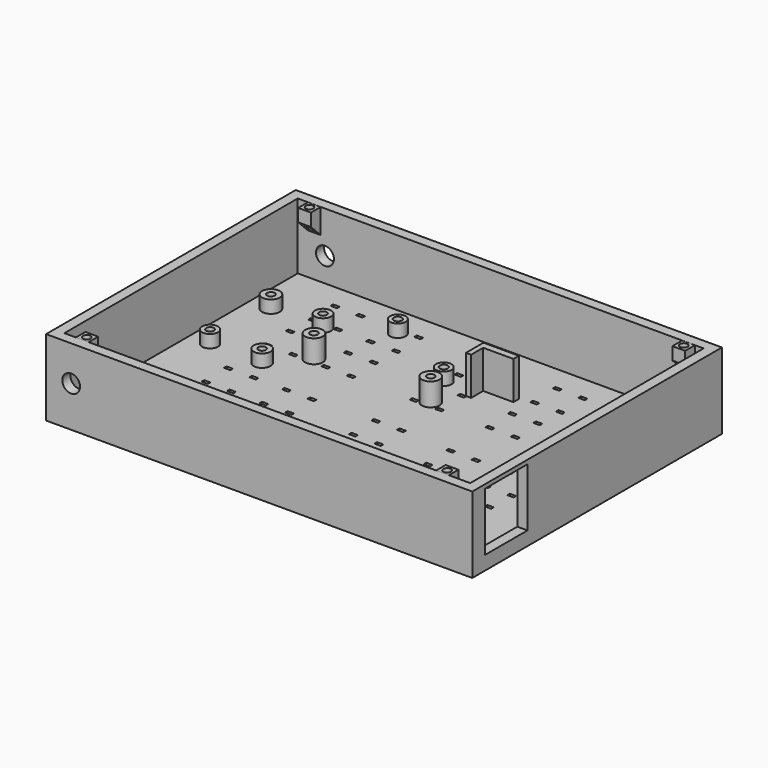
from build123d import *

# Parameters (mm, degrees)
SKETCH011_R            = 1.5
EXTRUDE011_DEPTH       = 10
EXTRUDE010_DEPTH       = 5
CUT006_PLACEMENT_ANGLE = 180
CUT005_PLACEMENT_ANGLE = 180
SKETCH009_R            = 3.5
EXTRUDE009_DEPTH       = 10
SKETCH008_R            = 3.525
EXTRUDE008_DEPTH       = 10
SKETCH007_W            = 20.952507
SKETCH007_H            = 22.980174
EXTRUDE007_DEPTH       = 8
SKETCH006_W            = 168
SKETCH006_H            = 123
SKETCH006_W_2          = 160
SKETCH006_H_2          = 115
EXTRUDE006_DEPTH       = 30
SKETCH005_R            = 3
SKETCH005_R_2          = 1.5
EXTRUDE005_DEPTH       = 5
SKETCH003_R            = 3.07303
SKETCH003_R_2          = 1.6
EXTRUDE003_DEPTH       = 5
SKETCH002_R            = 3.5
SKETCH002_R_2          = 1.5
EXTRUDE002_DEPTH       = 9
EXTRUDE001_DEPTH       = 15
SKETCH_W               = 160
SKETCH_H               = 115
SKETCH_W_2             = 2.5
SKETCH_H_2             = 1.25
EXTRUDE_DEPTH          = 4
SKETCH004_R            = 3.333371
SKETCH004_R_2          = 1.5
SKETCH004_R_3          = 3.135459
SKETCH004_R_4          = 3.484514
SKETCH004_R_5          = 3.19674
EXTRUDE004_DEPTH       = 5


with BuildPart() as extrude011:
    # Sketch011 (on Face1 of Extrude010) → Extrude011 (new body)
    with BuildSketch(Plane.XY.offset(27.45571)):
        with Locations((2.437397, 57.252541)):
            Circle(SKETCH011_R)
    extrude(amount=-EXTRUDE011_DEPTH)


with BuildPart() as extrude010:
    # Sketch010 → Extrude010 (new body)
    with BuildSketch(Plane.YZ):
        Polygon((59.748142, 27.45571), (54.748142, 27.45571), (54.748142, 22.45571), (59.748142, 17.484093), align=None)
    extrude(amount=EXTRUDE010_DEPTH)


with BuildPart() as screw_holder:
    # Cut003 base: copy of Extrude010
    add(extrude010.part)

    # Cut003: cut Extrude011
    add(extrude011.part, mode=Mode.SUBTRACT)


with BuildPart() as screw_holder_1:
    # Cut003 placement: moved
    add(screw_holder.part.moved(Location((-76, -2, 2.5))))


with BuildPart() as screw_holder001:
    # Cut004 base: copy of Extrude010
    add(extrude010.part)

    # Cut004: cut Extrude011
    add(extrude011.part, mode=Mode.SUBTRACT)


with BuildPart() as screw_holder001_1:
    # Cut004 placement: moved
    add(screw_holder001.part.moved(Location((71.5, -2, 2.5))))


with BuildPart() as screw_holder003:
    # Cut006 base: copy of Extrude010
    add(extrude010.part)

    # Cut006: cut Extrude011
    add(extrude011.part, mode=Mode.SUBTRACT)


with BuildPart() as screw_holder003_1:
    # Cut006 placement: moved
    add(screw_holder003.part.moved(Location((71.5, 2, 2.5))).rotate(Axis((71.5, 2, 2.5), (0, 0, 1)), CUT006_PLACEMENT_ANGLE))


with BuildPart() as screw_holder002:
    # Cut005 base: copy of Extrude010
    add(extrude010.part)

    # Cut005: cut Extrude011
    add(extrude011.part, mode=Mode.SUBTRACT)


with BuildPart() as screw_holder002_1:
    # Cut005 placement: moved
    add(screw_holder002.part.moved(Location((-70.5, 2, 2.5))).rotate(Axis((-70.5, 2, 2.5), (0, 0, 1)), CUT005_PLACEMENT_ANGLE))


with BuildPart() as extrude009:
    # Sketch009 (on Face7 of Cut001) → Extrude009 (new body, symmetric)
    with BuildSketch(Plane.XZ.offset(61.5)):
        with Locations((-74.115623, 16.067261)):
            Circle(SKETCH009_R)
    extrude(amount=EXTRUDE009_DEPTH, both=True)


with BuildPart() as extrude008:
    # Sketch008 (on Face1 of Cut) → Extrude008 (new body, symmetric)
    with BuildSketch(Plane(origin=(0, 61.5, 0), x_dir=(-1, 0, 0), z_dir=(0, 1, 0))):
        with Locations((69.272209, 13.566753)):
            Circle(SKETCH008_R)
    extrude(amount=EXTRUDE008_DEPTH, both=True)


with BuildPart() as extrude007:
    # Sketch007 (on Face2 of Extrude006) → Extrude007 (new body, symmetric)
    with BuildSketch(Plane.YZ.offset(84)):
        with Locations((-44.79282, 16.950631)):
            Rectangle(SKETCH007_W, SKETCH007_H)
    extrude(amount=EXTRUDE007_DEPTH, both=True)


with BuildPart() as cut002:
    # Sketch006 → Extrude006 (new body)
    with BuildSketch(Plane.XY):
        Rectangle(SKETCH006_W, SKETCH006_H)
        Rectangle(SKETCH006_W_2, SKETCH006_H_2, mode=Mode.SUBTRACT)
    extrude(amount=EXTRUDE006_DEPTH)

    # Cut: cut Extrude007
    add(extrude007.part, mode=Mode.SUBTRACT)

    # Cut001: cut Extrude008
    add(extrude008.part, mode=Mode.SUBTRACT)

    # Cut002: cut Extrude009
    add(extrude009.part, mode=Mode.SUBTRACT)


with BuildPart() as extrude005:
    # Sketch005 (on Face326 of Extrude) → Extrude005 (new body)
    with BuildSketch(Plane.XY.offset(4)):
        with Locations((-66.267296, -31.365587)):
            Circle(SKETCH005_R)
        with Locations((-66.267296, -31.365587)):
            Circle(SKETCH005_R_2, mode=Mode.SUBTRACT)
    extrude(amount=EXTRUDE005_DEPTH)


with BuildPart() as extrude003:
    # Sketch003 (on Face326 of Extrude) → Extrude003 (new body)
    with BuildSketch(Plane.XY.offset(4)):
        with Locations((-30.942476, 45.480278)):
            Circle(SKETCH003_R)
        with Locations((-30.942476, 45.480278)):
            Circle(SKETCH003_R_2, mode=Mode.SUBTRACT)
        with Locations((0.09178, 29.333971)):
            Circle(SKETCH003_R)
        with Locations((0.09178, 29.333971)):
            Circle(SKETCH003_R_2, mode=Mode.SUBTRACT)
    extrude(amount=EXTRUDE003_DEPTH)


with BuildPart() as plate_holder:
    # Sketch002 (on Face326 of Extrude) → Extrude002 (new body)
    with BuildSketch(Plane.XY.offset(4)):
        with Locations((5.59, -50)):
            Circle(SKETCH002_R)
        with Locations((5.59, -50)):
            Circle(SKETCH002_R_2, mode=Mode.SUBTRACT)
        with Locations((5.59, 16)):
            Circle(SKETCH002_R)
        with Locations((5.59, 16)):
            Circle(SKETCH002_R_2, mode=Mode.SUBTRACT)
        with Locations((-40.41, -50)):
            Circle(SKETCH002_R)
        with Locations((-40.41, -50)):
            Circle(SKETCH002_R_2, mode=Mode.SUBTRACT)
        with Locations((-40.41, 16)):
            Circle(SKETCH002_R)
        with Locations((-40.41, 16)):
            Circle(SKETCH002_R_2, mode=Mode.SUBTRACT)
    extrude(amount=EXTRUDE002_DEPTH)


with BuildPart() as battery_holder:
    # Sketch001 (on Face326 of Extrude) → Extrude001 (new body)
    with BuildSketch(Plane.XY.offset(4)):
        Polygon((13.54, 31.94), (25.452683, 31.94), (25.452683, 34.619628), (13.57556, 34.619628), (11.51653, 34.619628), (11.51653, 25.999222), (13.54, 25.999222), align=None)
    extrude(amount=EXTRUDE001_DEPTH)


with BuildPart() as extrude_body:
    # Sketch → Extrude (new body)
    with BuildSketch(Plane.XY):
        Rectangle(SKETCH_W, SKETCH_H)
        with Locations((-57.173458, -38.388184)):
            Rectangle(SKETCH_W_2, SKETCH_H_2, mode=Mode.SUBTRACT)
        with Locations((-47.123871, -38.381618)):
            Rectangle(SKETCH_W_2, SKETCH_H_2, mode=Mode.SUBTRACT)
        with Locations((-34.219715, -38.482644)):
            Rectangle(SKETCH_W_2, SKETCH_H_2, mode=Mode.SUBTRACT)
        with Locations((-24.170128, -38.476078)):
            Rectangle(SKETCH_W_2, SKETCH_H_2, mode=Mode.SUBTRACT)
        with Locations((-57.499351, -26.907059)):
            Rectangle(SKETCH_W_2, SKETCH_H_2, mode=Mode.SUBTRACT)
        with Locations((-47.449764, -26.900493)):
            Rectangle(SKETCH_W_2, SKETCH_H_2, mode=Mode.SUBTRACT)
        with Locations((-34.545608, -27.001519)):
            Rectangle(SKETCH_W_2, SKETCH_H_2, mode=Mode.SUBTRACT)
        with Locations((-24.496021, -26.994953)):
            Rectangle(SKETCH_W_2, SKETCH_H_2, mode=Mode.SUBTRACT)
        with Locations((-56.829235, -16.701435)):
            Rectangle(SKETCH_W_2, SKETCH_H_2, mode=Mode.SUBTRACT)
        with Locations((-46.779648, -16.694869)):
            Rectangle(SKETCH_W_2, SKETCH_H_2, mode=Mode.SUBTRACT)
        with Locations((-33.875492, -16.795895)):
            Rectangle(SKETCH_W_2, SKETCH_H_2, mode=Mode.SUBTRACT)
        with Locations((-23.825905, -16.789329)):
            Rectangle(SKETCH_W_2, SKETCH_H_2, mode=Mode.SUBTRACT)
        with Locations((-57.155128, -5.22031)):
            Rectangle(SKETCH_W_2, SKETCH_H_2, mode=Mode.SUBTRACT)
        with Locations((-47.105541, -5.213744)):
            Rectangle(SKETCH_W_2, SKETCH_H_2, mode=Mode.SUBTRACT)
        with Locations((-34.201385, -5.31477)):
            Rectangle(SKETCH_W_2, SKETCH_H_2, mode=Mode.SUBTRACT)
        with Locations((-24.151798, -5.308204)):
            Rectangle(SKETCH_W_2, SKETCH_H_2, mode=Mode.SUBTRACT)
        with Locations((-57.328959, 14.355609)):
            Rectangle(SKETCH_W_2, SKETCH_H_2, mode=Mode.SUBTRACT)
        with Locations((-47.279372, 14.362175)):
            Rectangle(SKETCH_W_2, SKETCH_H_2, mode=Mode.SUBTRACT)
        with Locations((-34.375216, 14.261149)):
            Rectangle(SKETCH_W_2, SKETCH_H_2, mode=Mode.SUBTRACT)
        with Locations((-24.325629, 14.267715)):
            Rectangle(SKETCH_W_2, SKETCH_H_2, mode=Mode.SUBTRACT)
        with Locations((-57.654852, 25.836734)):
            Rectangle(SKETCH_W_2, SKETCH_H_2, mode=Mode.SUBTRACT)
        with Locations((-47.605265, 25.8433)):
            Rectangle(SKETCH_W_2, SKETCH_H_2, mode=Mode.SUBTRACT)
        with Locations((-34.701109, 25.742274)):
            Rectangle(SKETCH_W_2, SKETCH_H_2, mode=Mode.SUBTRACT)
        with Locations((-24.651522, 25.74884)):
            Rectangle(SKETCH_W_2, SKETCH_H_2, mode=Mode.SUBTRACT)
        with Locations((-56.984736, 36.042358)):
            Rectangle(SKETCH_W_2, SKETCH_H_2, mode=Mode.SUBTRACT)
        with Locations((-46.935149, 36.048924)):
            Rectangle(SKETCH_W_2, SKETCH_H_2, mode=Mode.SUBTRACT)
        with Locations((-34.030993, 35.947898)):
            Rectangle(SKETCH_W_2, SKETCH_H_2, mode=Mode.SUBTRACT)
        with Locations((-23.981406, 35.954464)):
            Rectangle(SKETCH_W_2, SKETCH_H_2, mode=Mode.SUBTRACT)
        with Locations((-57.310629, 47.523483)):
            Rectangle(SKETCH_W_2, SKETCH_H_2, mode=Mode.SUBTRACT)
        with Locations((-47.261042, 47.530049)):
            Rectangle(SKETCH_W_2, SKETCH_H_2, mode=Mode.SUBTRACT)
        with Locations((-34.356886, 47.429023)):
            Rectangle(SKETCH_W_2, SKETCH_H_2, mode=Mode.SUBTRACT)
        with Locations((-24.307299, 47.435589)):
            Rectangle(SKETCH_W_2, SKETCH_H_2, mode=Mode.SUBTRACT)
        with Locations((30.602286, -38.622536)):
            Rectangle(SKETCH_W_2, SKETCH_H_2, mode=Mode.SUBTRACT)
        with Locations((40.651873, -38.61597)):
            Rectangle(SKETCH_W_2, SKETCH_H_2, mode=Mode.SUBTRACT)
        with Locations((53.556029, -38.716996)):
            Rectangle(SKETCH_W_2, SKETCH_H_2, mode=Mode.SUBTRACT)
        with Locations((63.605616, -38.71043)):
            Rectangle(SKETCH_W_2, SKETCH_H_2, mode=Mode.SUBTRACT)
        with Locations((30.276393, -27.141411)):
            Rectangle(SKETCH_W_2, SKETCH_H_2, mode=Mode.SUBTRACT)
        with Locations((40.32598, -27.134845)):
            Rectangle(SKETCH_W_2, SKETCH_H_2, mode=Mode.SUBTRACT)
        with Locations((53.230136, -27.235871)):
            Rectangle(SKETCH_W_2, SKETCH_H_2, mode=Mode.SUBTRACT)
        with Locations((63.279723, -27.229305)):
            Rectangle(SKETCH_W_2, SKETCH_H_2, mode=Mode.SUBTRACT)
        with Locations((30.946509, -16.935787)):
            Rectangle(SKETCH_W_2, SKETCH_H_2, mode=Mode.SUBTRACT)
        with Locations((40.996096, -16.929221)):
            Rectangle(SKETCH_W_2, SKETCH_H_2, mode=Mode.SUBTRACT)
        with Locations((53.900252, -17.030247)):
            Rectangle(SKETCH_W_2, SKETCH_H_2, mode=Mode.SUBTRACT)
        with Locations((63.949839, -17.023681)):
            Rectangle(SKETCH_W_2, SKETCH_H_2, mode=Mode.SUBTRACT)
        with Locations((30.620616, -5.454662)):
            Rectangle(SKETCH_W_2, SKETCH_H_2, mode=Mode.SUBTRACT)
        with Locations((40.670203, -5.448096)):
            Rectangle(SKETCH_W_2, SKETCH_H_2, mode=Mode.SUBTRACT)
        with Locations((53.574359, -5.549122)):
            Rectangle(SKETCH_W_2, SKETCH_H_2, mode=Mode.SUBTRACT)
        with Locations((63.623946, -5.542556)):
            Rectangle(SKETCH_W_2, SKETCH_H_2, mode=Mode.SUBTRACT)
        with Locations((30.446785, 14.121257)):
            Rectangle(SKETCH_W_2, SKETCH_H_2, mode=Mode.SUBTRACT)
        with Locations((40.496372, 14.127823)):
            Rectangle(SKETCH_W_2, SKETCH_H_2, mode=Mode.SUBTRACT)
        with Locations((53.400528, 14.026797)):
            Rectangle(SKETCH_W_2, SKETCH_H_2, mode=Mode.SUBTRACT)
        with Locations((63.450115, 14.033363)):
            Rectangle(SKETCH_W_2, SKETCH_H_2, mode=Mode.SUBTRACT)
        with Locations((30.120892, 25.602382)):
            Rectangle(SKETCH_W_2, SKETCH_H_2, mode=Mode.SUBTRACT)
        with Locations((40.170479, 25.608948)):
            Rectangle(SKETCH_W_2, SKETCH_H_2, mode=Mode.SUBTRACT)
        with Locations((53.074635, 25.507922)):
            Rectangle(SKETCH_W_2, SKETCH_H_2, mode=Mode.SUBTRACT)
        with Locations((63.124222, 25.514488)):
            Rectangle(SKETCH_W_2, SKETCH_H_2, mode=Mode.SUBTRACT)
        with Locations((30.791008, 35.808006)):
            Rectangle(SKETCH_W_2, SKETCH_H_2, mode=Mode.SUBTRACT)
        with Locations((40.840595, 35.814572)):
            Rectangle(SKETCH_W_2, SKETCH_H_2, mode=Mode.SUBTRACT)
        with Locations((53.744751, 35.713546)):
            Rectangle(SKETCH_W_2, SKETCH_H_2, mode=Mode.SUBTRACT)
        with Locations((63.794338, 35.720112)):
            Rectangle(SKETCH_W_2, SKETCH_H_2, mode=Mode.SUBTRACT)
        with Locations((30.465115, 47.289131)):
            Rectangle(SKETCH_W_2, SKETCH_H_2, mode=Mode.SUBTRACT)
        with Locations((40.514702, 47.295697)):
            Rectangle(SKETCH_W_2, SKETCH_H_2, mode=Mode.SUBTRACT)
        with Locations((53.418858, 47.194671)):
            Rectangle(SKETCH_W_2, SKETCH_H_2, mode=Mode.SUBTRACT)
        with Locations((63.468445, 47.201237)):
            Rectangle(SKETCH_W_2, SKETCH_H_2, mode=Mode.SUBTRACT)
        with Locations((0.711306, 13.921141)):
            Rectangle(SKETCH_W_2, SKETCH_H_2, mode=Mode.SUBTRACT)
        with Locations((10.760893, 13.927707)):
            Rectangle(SKETCH_W_2, SKETCH_H_2, mode=Mode.SUBTRACT)
        with Locations((0.385413, 25.402266)):
            Rectangle(SKETCH_W_2, SKETCH_H_2, mode=Mode.SUBTRACT)
        with Locations((10.435, 25.408832)):
            Rectangle(SKETCH_W_2, SKETCH_H_2, mode=Mode.SUBTRACT)
        with Locations((1.055529, 35.60789)):
            Rectangle(SKETCH_W_2, SKETCH_H_2, mode=Mode.SUBTRACT)
        with Locations((11.105116, 35.614456)):
            Rectangle(SKETCH_W_2, SKETCH_H_2, mode=Mode.SUBTRACT)
        with Locations((0.729636, 47.089015)):
            Rectangle(SKETCH_W_2, SKETCH_H_2, mode=Mode.SUBTRACT)
        with Locations((10.779223, 47.095581)):
            Rectangle(SKETCH_W_2, SKETCH_H_2, mode=Mode.SUBTRACT)
        with Locations((0.197773, -37.432562)):
            Rectangle(SKETCH_W_2, SKETCH_H_2, mode=Mode.SUBTRACT)
        with Locations((10.24736, -37.425996)):
            Rectangle(SKETCH_W_2, SKETCH_H_2, mode=Mode.SUBTRACT)
        with Locations((-0.12812, -25.951437)):
            Rectangle(SKETCH_W_2, SKETCH_H_2, mode=Mode.SUBTRACT)
        with Locations((9.921467, -25.944871)):
            Rectangle(SKETCH_W_2, SKETCH_H_2, mode=Mode.SUBTRACT)
        with Locations((0.541996, -15.745813)):
            Rectangle(SKETCH_W_2, SKETCH_H_2, mode=Mode.SUBTRACT)
        with Locations((10.591583, -15.739247)):
            Rectangle(SKETCH_W_2, SKETCH_H_2, mode=Mode.SUBTRACT)
        with Locations((0.216103, -4.264688)):
            Rectangle(SKETCH_W_2, SKETCH_H_2, mode=Mode.SUBTRACT)
        with Locations((10.26569, -4.258122)):
            Rectangle(SKETCH_W_2, SKETCH_H_2, mode=Mode.SUBTRACT)
    extrude(amount=EXTRUDE_DEPTH)


with BuildPart() as fusion002:
    # Sketch004 (on Face326 of Extrude) → Extrude004 (new body)
    with BuildSketch(Plane.XY.offset(4)):
        with Locations((-51.261574, 18.51416)):
            Circle(SKETCH004_R)
        with Locations((-51.261574, 18.51416)):
            Circle(SKETCH004_R_2, mode=Mode.SUBTRACT)
        with Locations((-71.770691, 18.497305)):
            Circle(SKETCH004_R_3)
        with Locations((-71.770691, 18.497305)):
            Circle(SKETCH004_R_2, mode=Mode.SUBTRACT)
        with Locations((-71.736305, 48.469505)):
            Circle(SKETCH004_R_4)
        with Locations((-71.736305, 48.469505)):
            Circle(SKETCH004_R_2, mode=Mode.SUBTRACT)
        with Locations((-51.200279, 48.466011)):
            Circle(SKETCH004_R_5)
        with Locations((-51.200279, 48.466011)):
            Circle(SKETCH004_R_2, mode=Mode.SUBTRACT)
    extrude(amount=EXTRUDE004_DEPTH)


with BuildPart() as fusion002_1:
    # Extrude004 placement: moved
    add(fusion002.part.moved(Location((0, -14.5, 0))))

    # Fusion: union Extrude005, Extrude003, plate_holder, battery_holder, Extrude body
    add(extrude005.part)
    add(extrude003.part)
    add(plate_holder.part)
    add(battery_holder.part)
    add(extrude_body.part)

    # Fusion001: union Cut002
    add(cut002.part)

    # Fusion002: union Screw Holder, Screw Holder001, Screw Holder003, Screw Holder002
    add(screw_holder_1.part)
    add(screw_holder001_1.part)
    add(screw_holder003_1.part)
    add(screw_holder002_1.part)


solid = fusion002_1.part
